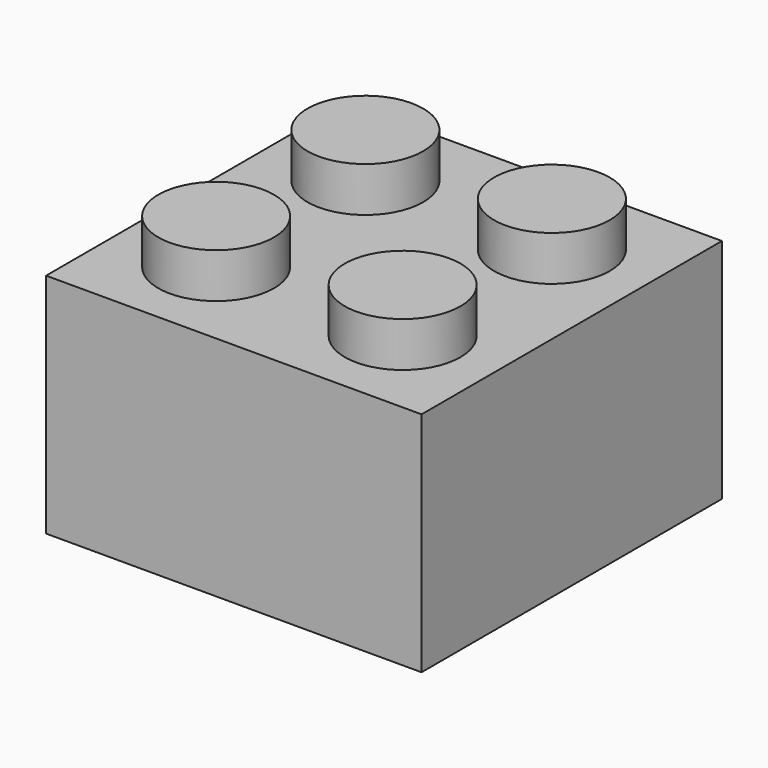
from build123d import *

# Parameters (mm, degrees)
F0_W     = 15.748
F0_H     = 15.748
F1_DEPTH = 9.525
F2_R     = 2.4257
F3_DEPTH = 1.8796
F4_W     = 13.5636
F4_H     = 13.5636
F5_DEPTH = 8.4328
F6_R     = 3.267
F7_DEPTH = 8.4328
F8_R     = 2.467
F9_DEPTH = 8.4328


with BuildPart() as f1:
    # F0 (on Top) → F1 (new body)
    with BuildSketch(Plane.XY):
        with Locations((0.432258, 0.097535)):
            Rectangle(F0_W, F0_H)
    extrude(amount=F1_DEPTH)

    # F2 (on face) → F3 (join)
    with BuildSketch(Plane.XY.offset(9.525)):
        with Locations((-3.479342, 4.009135)):
            Circle(F2_R)
        with Locations((4.343858, 4.009135)):
            Circle(F2_R)
        with Locations((-3.479342, -3.814065)):
            Circle(F2_R)
        with Locations((4.343858, -3.814065)):
            Circle(F2_R)
    extrude(amount=F3_DEPTH)

    # F4 (on face) → F5 (cut)
    with BuildSketch(Plane(origin=(0, 0, 0), x_dir=(1, 0, 0), z_dir=(0, 0, -1))):
        with Locations((0.432258, -0.097535)):
            Rectangle(F4_W, F4_H)
    extrude(amount=-F5_DEPTH, mode=Mode.SUBTRACT)

    # F6 (on face) → F7 (join)
    with BuildSketch(Plane(origin=(0, 0, 8.4328), x_dir=(1, 0, 0), z_dir=(0, 0, -1))):
        with Locations((0.431654, 0)):
            Circle(F6_R)
    extrude(amount=F7_DEPTH)

    # F8 (on face) → F9 (cut)
    with BuildSketch(Plane(origin=(0, 0, 0), x_dir=(1, 0, 0), z_dir=(0, 0, -1))):
        with Locations((0.431654, 0)):
            Circle(F8_R)
    extrude(amount=-F9_DEPTH, mode=Mode.SUBTRACT)


solid = f1.part
